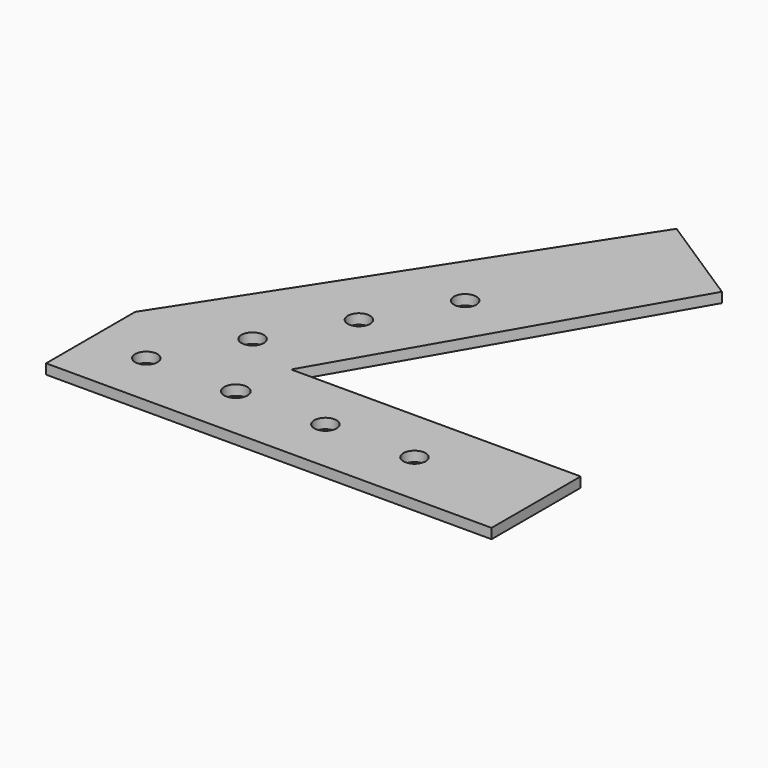
from build123d import *

# Parameters (mm, degrees)
F0_R     = 2.54
F0_R_2   = 2.641861
F1_DEPTH = 2.286


with BuildPart() as f1:
    # F0 (on Top) → F1 (new body)
    with BuildSketch(Plane.XY):
        Polygon((-44.599567, 25.4), (-44.599567, 0), (57.000433, 0), (57.000433, 25.4), (-9.039567, 25.4), (32.144752, 96.733333), (10.658662, 110.658948), align=None)
        with Locations((-31.899567, 12.7)):
            Circle(F0_R, mode=Mode.SUBTRACT)
        with Locations((-11.477706, 12.7)):
            Circle(F0_R_2, mode=Mode.SUBTRACT)
        with Locations((-21.739567, 30.297636)):
            Circle(F0_R, mode=Mode.SUBTRACT)
        with Locations((-11.579567, 47.895272)):
            Circle(F0_R, mode=Mode.SUBTRACT)
        with Locations((8.944155, 12.7)):
            Circle(F0_R, mode=Mode.SUBTRACT)
        with Locations((29.264155, 12.7)):
            Circle(F0_R, mode=Mode.SUBTRACT)
        with Locations((-1.419567, 65.492909)):
            Circle(F0_R, mode=Mode.SUBTRACT)
    extrude(amount=F1_DEPTH)


solid = f1.part
